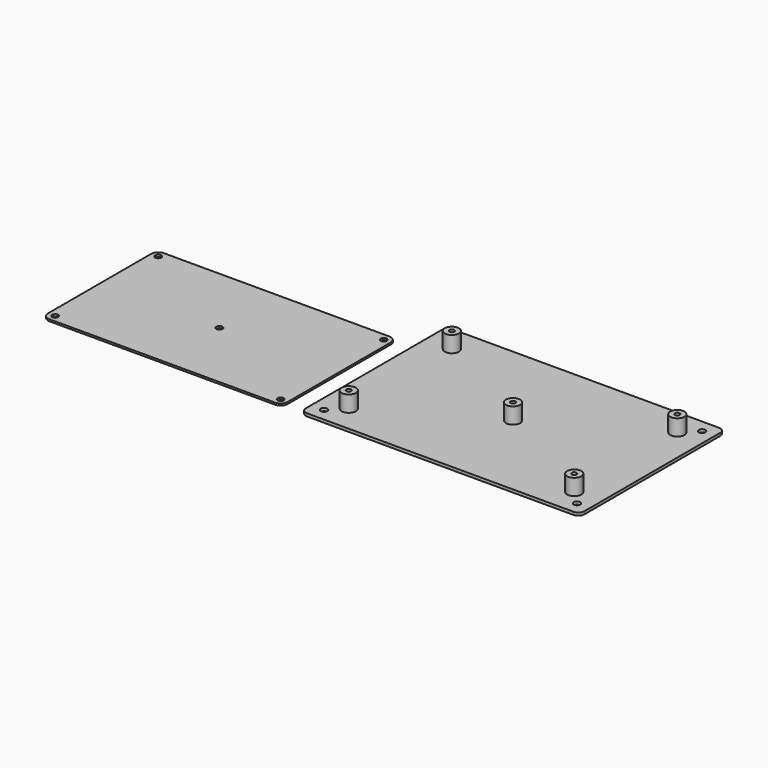
from build123d import *

# Parameters (mm, degrees)
F0_R     = 1.75
F1_DEPTH = 1.5
F2_R     = 3.75
F2_R_2   = 1.27
F3_DEPTH = 8.5
F4_R     = 1.625
F5_DEPTH = 1


with BuildPart() as f1:
    # F0 (on Top) → F1 (new body)
    with BuildSketch(Plane.XY):
        with BuildLine():
            ThreePointArc((5, 8.2), (5.937258, 5.937258), (8.2, 5))
            Line((8.2, 5), (148.8, 5))
            ThreePointArc((148.8, 5), (151.062742, 5.937258), (152, 8.2))
            Line((152, 8.2), (152, 97.8))
            ThreePointArc((152, 97.8), (151.062742, 100.062742), (148.8, 101))
            Line((148.8, 101), (8.2, 101))
            ThreePointArc((8.2, 101), (5.937258, 100.062742), (5, 97.8))
            Line((5, 97.8), (5, 8.2))
        make_face()
        with Locations((11.75, 11.75)):
            Circle(F0_R, mode=Mode.SUBTRACT)
        with Locations((145.25, 11.75)):
            Circle(F0_R, mode=Mode.SUBTRACT)
        with Locations((11.75, 94.25)):
            Circle(F0_R, mode=Mode.SUBTRACT)
        with Locations((145.25, 94.25)):
            Circle(F0_R, mode=Mode.SUBTRACT)
    extrude(amount=F1_DEPTH)

    # F2 (on face) → F3 (join)
    with BuildSketch(Plane.XY.offset(1.5)):
        with Locations((19, 19)):
            Circle(F2_R)
        with Locations((19, 19)):
            Circle(F2_R_2, mode=Mode.SUBTRACT)
        with Locations((138, 19)):
            Circle(F2_R)
        with Locations((138, 19)):
            Circle(F2_R_2, mode=Mode.SUBTRACT)
        with Locations((138, 87)):
            Circle(F2_R)
        with Locations((138, 87)):
            Circle(F2_R_2, mode=Mode.SUBTRACT)
        with Locations((19, 87)):
            Circle(F2_R)
        with Locations((19, 87)):
            Circle(F2_R_2, mode=Mode.SUBTRACT)
        with Locations((78.5, 53)):
            Circle(F2_R)
        with Locations((78.5, 53)):
            Circle(F2_R_2, mode=Mode.SUBTRACT)
    extrude(amount=F3_DEPTH)


with BuildPart() as f5:
    # F4 (on Top) → F5 (new body)
    with BuildSketch(Plane.XY):
        with BuildLine():
            Line((-127.75, 5), (-8.75, 5))
            ThreePointArc((-8.75, 5), (-6.09835, 6.09835), (-5, 8.75))
            Line((-5, 8.75), (-5, 76.75))
            ThreePointArc((-5, 76.75), (-6.09835, 79.40165), (-8.75, 80.5))
            Line((-8.75, 80.5), (-127.75, 80.5))
            ThreePointArc((-127.75, 80.5), (-130.40165, 79.40165), (-131.5, 76.75))
            Line((-131.5, 76.75), (-131.5, 8.75))
            ThreePointArc((-131.5, 8.75), (-130.40165, 6.09835), (-127.75, 5))
        make_face()
        with Locations((-127.75, 8.75)):
            Circle(F4_R, mode=Mode.SUBTRACT)
        with Locations((-8.75, 8.75)):
            Circle(F4_R, mode=Mode.SUBTRACT)
        with Locations((-68.25, 42.75)):
            Circle(F4_R, mode=Mode.SUBTRACT)
        with Locations((-127.75, 76.75)):
            Circle(F4_R, mode=Mode.SUBTRACT)
        with Locations((-8.75, 76.75)):
            Circle(F4_R, mode=Mode.SUBTRACT)
    extrude(amount=F5_DEPTH)


solid = Compound([f1.part, f5.part])
